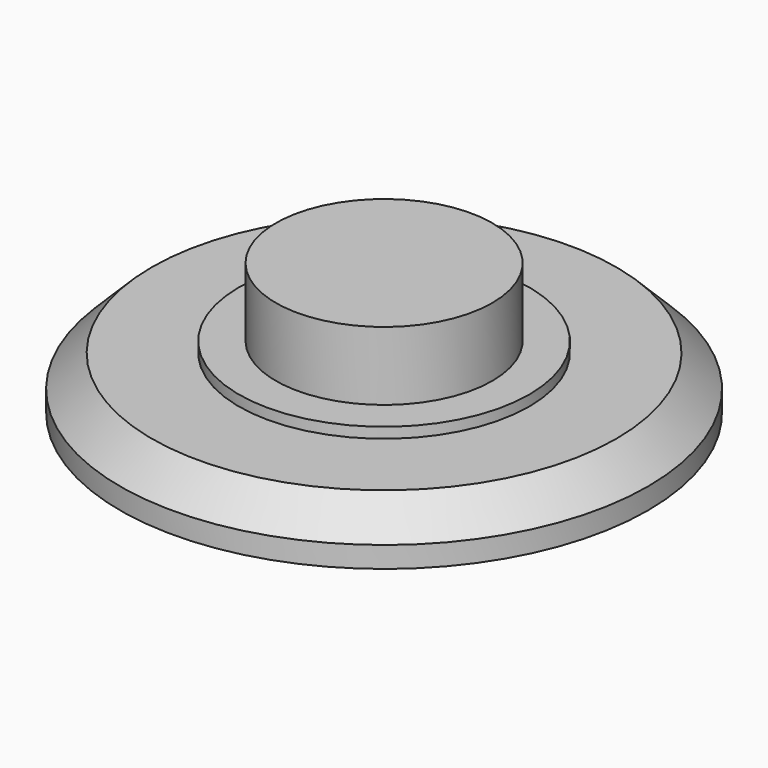
from build123d import *

# Parameters (mm, degrees)
F0_R     = 10
F0_R_2   = 5.5
F0_R_3   = 4.1
F1_DEPTH = 2
F2_DEPTH = 5
F3_SIZE  = 1.2
F4_DEPTH = 2.4


with BuildPart() as f1:
    # F0 (on Top) → F1 (new body)
    with BuildSketch(Plane.XY):
        Circle(F0_R)
        Circle(F0_R_2, mode=Mode.SUBTRACT)
        Circle(F0_R_3)
        Circle(F0_R_2)
        Circle(F0_R_3, mode=Mode.SUBTRACT)
    extrude(amount=F1_DEPTH)

    # F0 (on Top) → F2 (join)
    with BuildSketch(Plane.XY):
        Circle(F0_R_3)
    extrude(amount=F2_DEPTH)

    # F3
    f3_edges = [f1.edges().sort_by_distance(p)[0] for p in [
        (-10, 0, 2),
    ]]
    chamfer(f3_edges, length=F3_SIZE)

    # F0 (on Top) → F4 (join)
    with BuildSketch(Plane.XY):
        Circle(F0_R_2)
        Circle(F0_R_3, mode=Mode.SUBTRACT)
    extrude(amount=F4_DEPTH)


solid = f1.part
